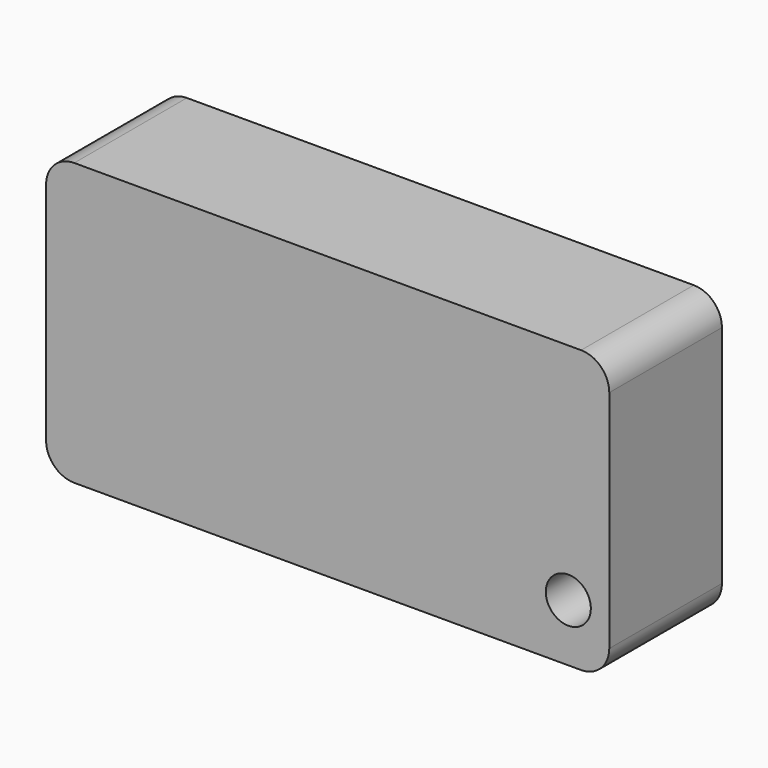
from build123d import *

# Parameters (mm, degrees)
F0_R     = 4
F1_DEPTH = 25


with BuildPart() as f1:
    # F0 (on Front) → F1 (new body)
    with BuildSketch(Plane.XZ):
        with BuildLine():
            Line((51.584217, 16.563873), (-38.415783, 16.563873))
            ThreePointArc((-38.415783, 16.563873), (-41.951317, 15.099407), (-43.415783, 11.563873))
            Line((-43.415783, 11.563873), (-43.415783, -28.436127))
            ThreePointArc((-43.415783, -28.436127), (-41.951317, -31.971661), (-38.415783, -33.436127))
            Line((-38.415783, -33.436127), (51.584217, -33.436127))
            ThreePointArc((51.584217, -33.436127), (55.119751, -31.971661), (56.584217, -28.436127))
            Line((56.584217, -28.436127), (56.584217, 11.563873))
            ThreePointArc((56.584217, 11.563873), (55.119751, 15.099407), (51.584217, 16.563873))
        make_face()
        with Locations((49.311109, -23.245482)):
            Circle(F0_R, mode=Mode.SUBTRACT)
    extrude(amount=F1_DEPTH)


solid = f1.part
